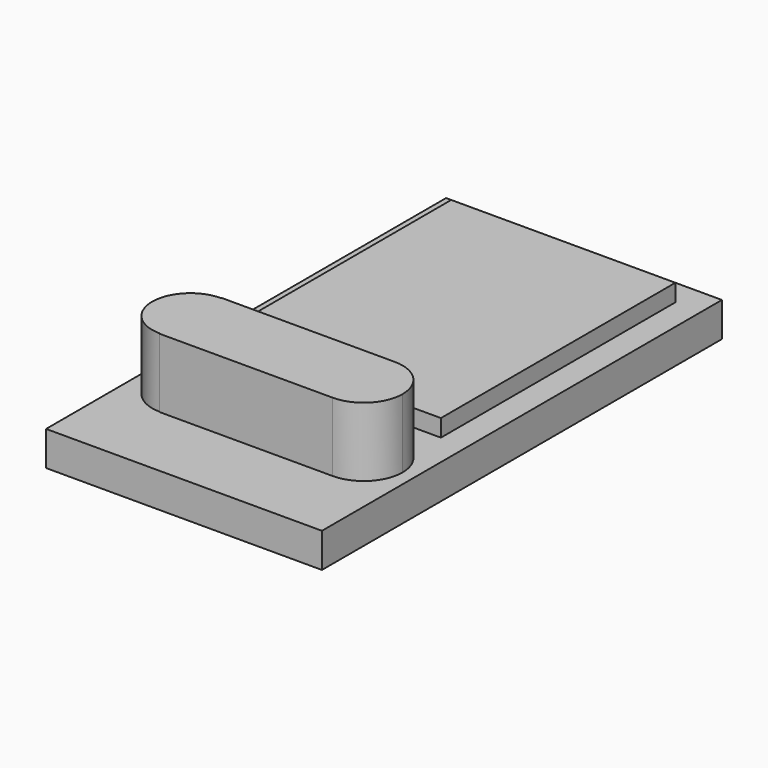
from build123d import *

# Parameters (mm, degrees)
F0_W     = 16
F0_H     = 29
F0_W_2   = 13
F0_H_2   = 17
F1_DEPTH = 2
F2_DEPTH = 6
F3_DEPTH = 3


with BuildPart() as f1:
    # F0 (on Top) → F1 (new body)
    with BuildSketch(Plane.XY):
        Rectangle(F0_W, F0_H)
        with BuildLine():
            ThreePointArc((7.2759241834, -7.75), (6.6169144411, -9.3409902577), (5.0259241834, -10))
            Line((5.0259241834, -10), (-5.0259241834, -10))
            Line((-5.0259241834, -10), (-5.0259241834, -9.9706540408))
            ThreePointArc((-5.0259241834, -9.9706540408), (-7.2465782242, -7.75), (-5.0259241834, -5.5293459592))
            Line((-5.0259241834, -5.5293459592), (-5.0259241834, -5.5))
            Line((-5.0259241834, -5.5), (5.0259241834, -5.5))
            ThreePointArc((5.0259241834, -5.5), (6.6169144411, -6.1590097423), (7.2759241834, -7.75))
        make_face(mode=Mode.SUBTRACT)
        with Locations((0, 4.5)):
            Rectangle(F0_W_2, F0_H_2, mode=Mode.SUBTRACT)
    extrude(amount=F1_DEPTH)

    # F0 (on Top) → F2 (join)
    with BuildSketch(Plane.XY):
        with BuildLine():
            Line((-5.0259241834, -5.5293459592), (-5.0259241834, -9.9706540408))
            ThreePointArc((-5.0259241834, -9.9706540408), (-3.4556846525, -9.3202395309), (-2.8052701426, -7.75))
            ThreePointArc((-2.8052701426, -7.75), (-3.4556846525, -6.1797604691), (-5.0259241834, -5.5293459592))
        make_face()
        with BuildLine():
            ThreePointArc((-5.0259241834, -5.5293459592), (-7.2465782242, -7.75), (-5.0259241834, -9.9706540408))
            Line((-5.0259241834, -9.9706540408), (-5.0259241834, -5.5293459592))
        make_face()
        with BuildLine():
            ThreePointArc((5.0259241834, -5.5), (2.7759241834, -7.75), (5.0259241834, -10))
            Line((5.0259241834, -10), (5.0259241834, -5.5))
        make_face()
        with BuildLine():
            Line((5.0259241834, -5.5), (5.0259241834, -10))
            ThreePointArc((5.0259241834, -10), (6.6169144411, -9.3409902577), (7.2759241834, -7.75))
            ThreePointArc((7.2759241834, -7.75), (6.6169144411, -6.1590097423), (5.0259241834, -5.5))
        make_face()
        with BuildLine():
            Line((-5.0259241834, -10), (5.0259241834, -10))
            ThreePointArc((5.0259241834, -10), (2.7759241834, -7.75), (5.0259241834, -5.5))
            Line((5.0259241834, -5.5), (-5.0259241834, -5.5))
            Line((-5.0259241834, -5.5), (-5.0259241834, -5.5293459592))
            ThreePointArc((-5.0259241834, -5.5293459592), (-3.4556846525, -6.1797604691), (-2.8052701426, -7.75))
            ThreePointArc((-2.8052701426, -7.75), (-3.4556846525, -9.3202395309), (-5.0259241834, -9.9706540408))
            Line((-5.0259241834, -9.9706540408), (-5.0259241834, -10))
        make_face()
    extrude(amount=F2_DEPTH)

    # F0 (on Top) → F3 (join)
    with BuildSketch(Plane.XY):
        with Locations((0, 4.5)):
            Rectangle(F0_W_2, F0_H_2)
    extrude(amount=F3_DEPTH)


solid = f1.part
